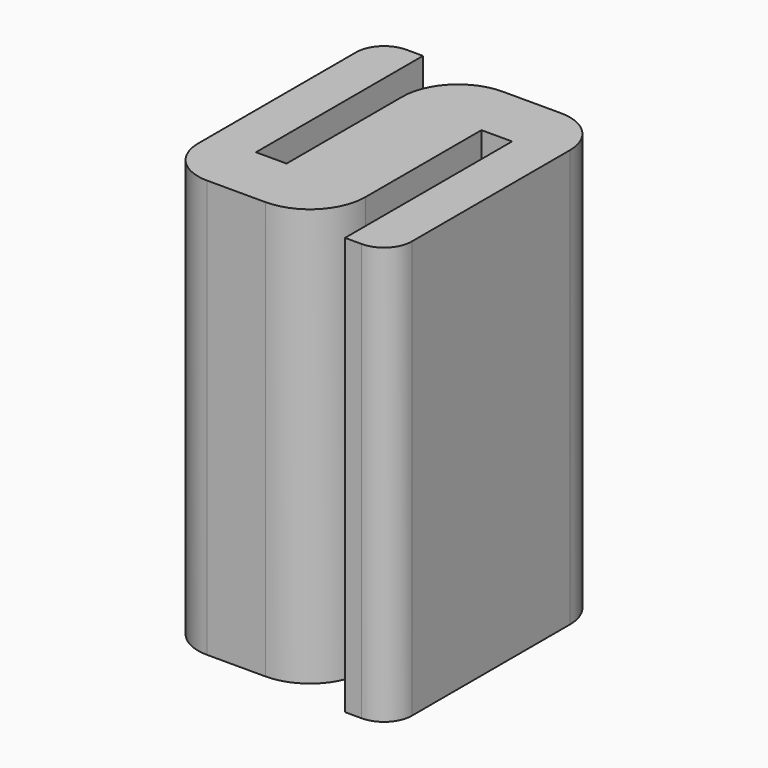
from build123d import *

# Parameters (mm, degrees)
F1_DEPTH = 19.05


with BuildPart() as f1:
    # F0 (on Top) → F1 (new body)
    with BuildSketch(Plane.XY):
        with BuildLine():
            Line((0, 0), (0, 9.525))
            Line((0, 9.525), (-0.762, 9.525))
            ThreePointArc((-0.762, 9.525), (-1.660026, 9.153026), (-2.032, 8.255))
            Line((-2.032, 8.255), (-2.032, -0.762))
            ThreePointArc((-2.032, -0.762), (-1.436841, -2.198841), (0, -2.794))
            Line((0, -2.794), (2.667, -2.794))
            ThreePointArc((2.667, -2.794), (4.463051, -2.050051), (5.207, -0.254))
            Line((5.207, -0.254), (5.207, 6.35))
            Line((5.207, 6.35), (6.604, 6.35))
            Line((6.604, 6.35), (6.604, -3.175))
            Line((6.604, -3.175), (7.366, -3.175))
            ThreePointArc((7.366, -3.175), (8.264026, -2.803026), (8.636, -1.905))
            Line((8.636, -1.905), (8.636, 7.112))
            ThreePointArc((8.636, 7.112), (8.040841, 8.548841), (6.604, 9.144))
            Line((6.604, 9.144), (3.937, 9.144))
            ThreePointArc((3.937, 9.144), (2.140949, 8.400051), (1.397, 6.604))
            Line((1.397, 6.604), (1.397, 0))
            Line((1.397, 0), (0, 0))
        make_face()
    extrude(amount=F1_DEPTH)


solid = f1.part
